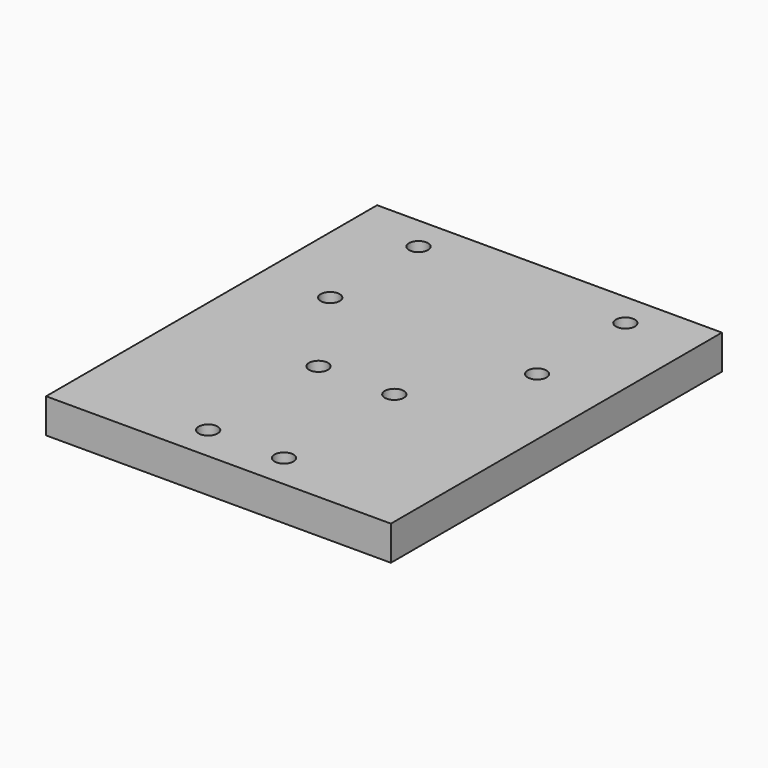
from build123d import *

# Parameters (mm, degrees)
F1_DEPTH = 100
F3_D     = 5.5
F5_D     = 4.2
F5_DEPTH = 14.4
F5_TIP   = 1.2618073


with BuildPart() as f1:
    # F0 (on Right) → F1 (new body)
    with BuildSketch(Plane.YZ):
        Polygon((-120, 0), (0, 0), (0, 10), (-10, 10), (-120, 10), align=None)
    extrude(amount=F1_DEPTH)

    # F3 (through all)
    with Locations(Plane.XY.offset(10)):
        with Locations((80, -10), (80, -42), (20, -42), (20, -10), (39, -70), (61, -70), (61, -110), (39, -110)):
            Hole(F3_D / 2)

    # F5
    with Locations(Plane(origin=(0, 0, 0), x_dir=(-1, 0, 0), z_dir=(0, 1, 0))):
        with Locations((-90, 5), (-65, 5), (-35, 5), (-10, 5)):
            Hole(F5_D / 2, depth=F5_DEPTH)
            with Locations((0, 0, -(F5_DEPTH + F5_TIP / 2))):  # 118° drill point
                Cone(0, F5_D / 2, F5_TIP, mode=Mode.SUBTRACT)


solid = f1.part
